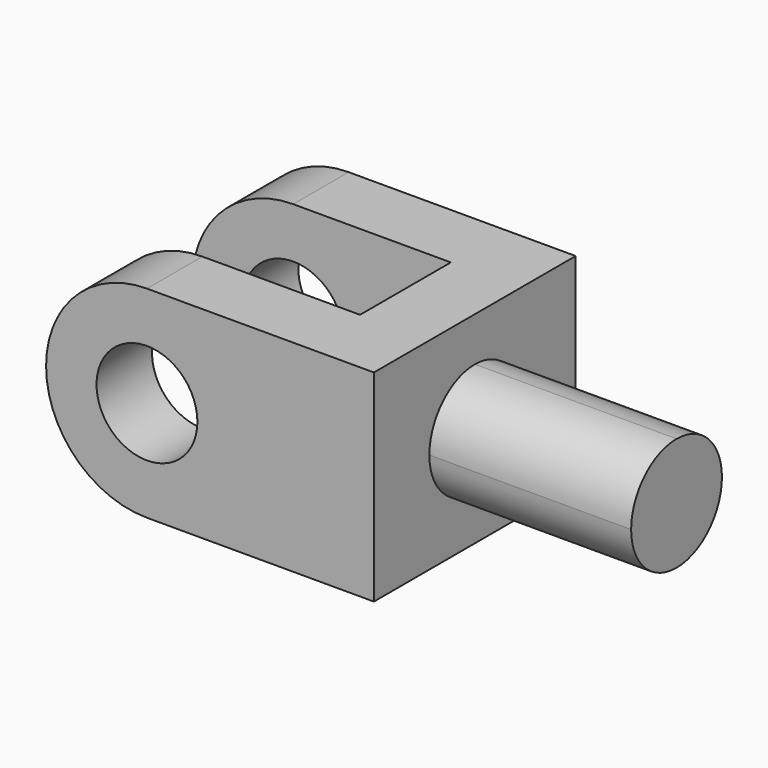
from build123d import *

# Parameters (mm, degrees)
F1_DEPTH = 32
F2_R     = 8
F3_DEPTH = 99.3
F5_DEPTH = 32


with BuildPart() as f1:
    # F0 (on Top) → F1 (new body)
    with BuildSketch(Plane.XY):
        Polygon((26, 9), (26, 20), (-26, 20), (-26, 9), (15, 9), (15, -9), (-26, -9), (-26, -20), (26, -20), (26, -9), align=None)
    extrude(amount=F1_DEPTH)

    # F2 (on face) → F3 (cut)
    with BuildSketch(Plane.XZ.offset(20)):
        with BuildLine():
            ThreePointArc((-26, 16.000000143), (-21.3137084484, 27.3137085495), (-10, 32))
            Line((-10, 32), (-26, 32))
            Line((-26, 32), (-26, 16.000000143))
        make_face()
        with BuildLine():
            Line((-26, 0), (-10, 0))
            ThreePointArc((-10, 0), (-21.3137085495, 4.6862915516), (-26, 16.000000143))
            Line((-26, 16.000000143), (-26, 0))
        make_face()
        with Locations((-10, 16)):
            Circle(F2_R)
    extrude(amount=-F3_DEPTH, mode=Mode.SUBTRACT)

    # F4 (on face) → F5 (join)
    with BuildSketch(Plane.YZ.offset(26)):
        with BuildLine():
            ThreePointArc((9, 16), (6.3639610307, 22.3639610307), (0, 25))
            Line((0, 25), (0, 16))
            Line((0, 16), (9, 16))
        make_face()
        with BuildLine():
            Line((0, 16), (0, 25))
            ThreePointArc((0, 25), (-6.3639610307, 22.3639610307), (-9, 16))
            Line((-9, 16), (0, 16))
        make_face()
        with BuildLine():
            Line((9, 16), (0, 16))
            Line((0, 16), (0, 7))
            ThreePointArc((0, 7), (6.3639610307, 9.6360389693), (9, 16))
        make_face()
        with BuildLine():
            Line((0, 7), (0, 16))
            Line((0, 16), (-9, 16))
            ThreePointArc((-9, 16), (-6.3639610307, 9.6360389693), (0, 7))
        make_face()
    extrude(amount=F5_DEPTH)


solid = f1.part
